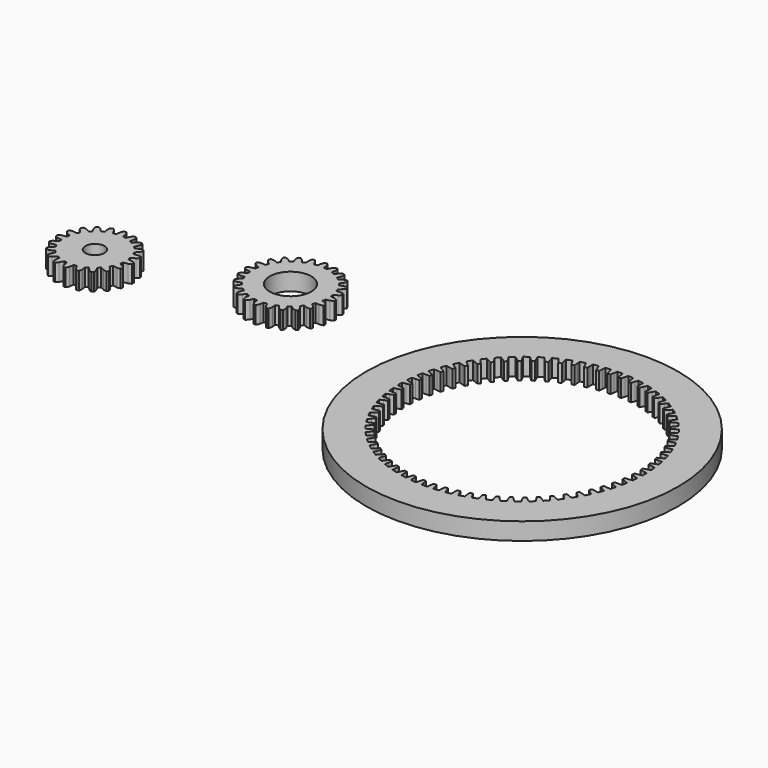
from build123d import *

# Parameters (mm, degrees)
F0_R     = 2.75
F0_R_2   = 6
F0_R_3   = 45
F1_DEPTH = 5


with BuildPart() as f1:
    # F0 (on Top) → F1 (new body)
    with BuildSketch(Plane.XY):
        with BuildLine():
            ThreePointArc((-44.166472, -62.599633), (-44.345968, -62.166356), (-44.62143, -61.786791))
            ThreePointArc((-44.62143, -61.786791), (-44.914109, -61.782896), (-45.206788, -61.786791))
            ThreePointArc((-45.206788, -61.786791), (-45.482249, -62.166356), (-45.661746, -62.599633))
            Line((-45.661746, -62.599633), (-45.892656, -63.909188))
            ThreePointArc((-45.892656, -63.909188), (-46.310678, -63.965309), (-46.725582, -64.041111))
            Line((-46.725582, -64.041111), (-47.349865, -62.867005))
            ThreePointArc((-47.349865, -62.867005), (-47.654467, -62.510401), (-48.033738, -62.234536))
            ThreePointArc((-48.033738, -62.234536), (-48.313296, -62.321275), (-48.590447, -62.415421))
            ThreePointArc((-48.590447, -62.415421), (-48.735134, -62.861531), (-48.771955, -63.32907))
            Line((-48.771955, -63.32907), (-48.586889, -64.645886))
            ThreePointArc((-48.586889, -64.645886), (-48.967109, -64.828436), (-49.338283, -65.02874))
            Line((-49.338283, -65.02874), (-50.294829, -64.105014))
            ThreePointArc((-50.294829, -64.105014), (-50.69472, -63.85999), (-51.140675, -63.714828))
            ThreePointArc((-51.140675, -63.714828), (-51.379747, -63.88371), (-51.61424, -64.058892))
            ThreePointArc((-51.61424, -64.058892), (-51.61399, -64.527879), (-51.504532, -64.983914))
            Line((-51.504532, -64.983914), (-50.921605, -66.179091))
            ThreePointArc((-50.921605, -66.179091), (-51.226805, -66.470201), (-51.517914, -66.7754))
            Line((-51.517914, -66.7754), (-52.713092, -66.192473))
            ThreePointArc((-52.713092, -66.192473), (-53.169126, -66.083015), (-53.638113, -66.082766))
            ThreePointArc((-53.638113, -66.082766), (-53.813296, -66.317259), (-53.982178, -66.55633))
            ThreePointArc((-53.982178, -66.55633), (-53.837015, -67.002286), (-53.591992, -67.402176))
            Line((-53.591992, -67.402176), (-52.668265, -68.358723))
            ThreePointArc((-52.668265, -68.358723), (-52.86857, -68.729896), (-53.051119, -69.110116))
            Line((-53.051119, -69.110116), (-54.367935, -68.92505))
            ThreePointArc((-54.367935, -68.92505), (-54.835474, -68.961871), (-55.281584, -69.106559))
            ThreePointArc((-55.281584, -69.106559), (-55.375731, -69.38371), (-55.46247, -69.663267))
            ThreePointArc((-55.46247, -69.663267), (-55.186604, -70.042539), (-54.83, -70.34714))
            Line((-54.83, -70.34714), (-53.655895, -70.971423))
            ThreePointArc((-53.655895, -70.971423), (-53.731696, -71.386328), (-53.787817, -71.804349))
            Line((-53.787817, -71.804349), (-55.097372, -72.035259))
            ThreePointArc((-55.097372, -72.035259), (-55.53065, -72.214756), (-55.910214, -72.490218))
            ThreePointArc((-55.910214, -72.490218), (-55.914109, -72.782896), (-55.910214, -73.075575))
            ThreePointArc((-55.910214, -73.075575), (-55.53065, -73.351037), (-55.097372, -73.530534))
            Line((-55.097372, -73.530534), (-53.787817, -73.761443))
            ThreePointArc((-53.787817, -73.761443), (-53.731696, -74.179465), (-53.655895, -74.59437))
            Line((-53.655895, -74.59437), (-54.83, -75.218653))
            ThreePointArc((-54.83, -75.218653), (-55.186604, -75.523254), (-55.46247, -75.902526))
            ThreePointArc((-55.46247, -75.902526), (-55.375731, -76.182083), (-55.281584, -76.459234))
            ThreePointArc((-55.281584, -76.459234), (-54.835474, -76.603922), (-54.367935, -76.640743))
            Line((-54.367935, -76.640743), (-53.051119, -76.455677))
            ThreePointArc((-53.051119, -76.455677), (-52.86857, -76.835897), (-52.668265, -77.20707))
            Line((-52.668265, -77.20707), (-53.591992, -78.163617))
            ThreePointArc((-53.591992, -78.163617), (-53.837015, -78.563507), (-53.982178, -79.009463))
            ThreePointArc((-53.982178, -79.009463), (-53.813296, -79.248534), (-53.638113, -79.483027))
            ThreePointArc((-53.638113, -79.483027), (-53.169126, -79.482778), (-52.713092, -79.373319))
            Line((-52.713092, -79.373319), (-51.517914, -78.790393))
            ThreePointArc((-51.517914, -78.790393), (-51.226805, -79.095592), (-50.921605, -79.386702))
            Line((-50.921605, -79.386702), (-51.504532, -80.581879))
            ThreePointArc((-51.504532, -80.581879), (-51.61399, -81.037914), (-51.61424, -81.5069))
            ThreePointArc((-51.61424, -81.5069), (-51.379747, -81.682083), (-51.140675, -81.850965))
            ThreePointArc((-51.140675, -81.850965), (-50.69472, -81.705803), (-50.294829, -81.460779))
            Line((-50.294829, -81.460779), (-49.338283, -80.537053))
            ThreePointArc((-49.338283, -80.537053), (-48.967109, -80.737357), (-48.586889, -80.919907))
            Line((-48.586889, -80.919907), (-48.771955, -82.236722))
            ThreePointArc((-48.771955, -82.236722), (-48.735134, -82.704262), (-48.590447, -83.150372))
            ThreePointArc((-48.590447, -83.150372), (-48.313296, -83.244518), (-48.033738, -83.331257))
            ThreePointArc((-48.033738, -83.331257), (-47.654467, -83.055392), (-47.349865, -82.698788))
            Line((-47.349865, -82.698788), (-46.725582, -81.524682))
            ThreePointArc((-46.725582, -81.524682), (-46.310678, -81.600484), (-45.892656, -81.656605))
            Line((-45.892656, -81.656605), (-45.661746, -82.966159))
            ThreePointArc((-45.661746, -82.966159), (-45.482249, -83.399437), (-45.206788, -83.779002))
            ThreePointArc((-45.206788, -83.779002), (-44.914109, -83.782896), (-44.62143, -83.779002))
            ThreePointArc((-44.62143, -83.779002), (-44.345968, -83.399437), (-44.166472, -82.966159))
            Line((-44.166472, -82.966159), (-43.935562, -81.656605))
            ThreePointArc((-43.935562, -81.656605), (-43.51754, -81.600484), (-43.102636, -81.524682))
            Line((-43.102636, -81.524682), (-42.478353, -82.698788))
            ThreePointArc((-42.478353, -82.698788), (-42.173751, -83.055392), (-41.79448, -83.331257))
            ThreePointArc((-41.79448, -83.331257), (-41.514922, -83.244518), (-41.237771, -83.150372))
            ThreePointArc((-41.237771, -83.150372), (-41.093084, -82.704262), (-41.056262, -82.236722))
            Line((-41.056262, -82.236722), (-41.241329, -80.919907))
            ThreePointArc((-41.241329, -80.919907), (-40.861109, -80.737357), (-40.489935, -80.537053))
            Line((-40.489935, -80.537053), (-39.533388, -81.460779))
            ThreePointArc((-39.533388, -81.460779), (-39.133498, -81.705803), (-38.687542, -81.850965))
            ThreePointArc((-38.687542, -81.850965), (-38.448471, -81.682083), (-38.213978, -81.5069))
            ThreePointArc((-38.213978, -81.5069), (-38.214227, -81.037914), (-38.323686, -80.581879))
            Line((-38.323686, -80.581879), (-38.906613, -79.386702))
            ThreePointArc((-38.906613, -79.386702), (-38.601413, -79.095592), (-38.310303, -78.790393))
            Line((-38.310303, -78.790393), (-37.115126, -79.373319))
            ThreePointArc((-37.115126, -79.373319), (-36.659092, -79.482778), (-36.190105, -79.483027))
            ThreePointArc((-36.190105, -79.483027), (-36.014922, -79.248534), (-35.84604, -79.009463))
            ThreePointArc((-35.84604, -79.009463), (-35.991202, -78.563507), (-36.236226, -78.163617))
            Line((-36.236226, -78.163617), (-37.159952, -77.20707))
            ThreePointArc((-37.159952, -77.20707), (-36.959648, -76.835897), (-36.777098, -76.455677))
            Line((-36.777098, -76.455677), (-35.460283, -76.640743))
            ThreePointArc((-35.460283, -76.640743), (-34.992744, -76.603922), (-34.546634, -76.459234))
            ThreePointArc((-34.546634, -76.459234), (-34.452487, -76.182083), (-34.365748, -75.902526))
            ThreePointArc((-34.365748, -75.902526), (-34.641614, -75.523254), (-34.998218, -75.218653))
            Line((-34.998218, -75.218653), (-36.172323, -74.59437))
            ThreePointArc((-36.172323, -74.59437), (-36.096521, -74.179465), (-36.0404, -73.761443))
            Line((-36.0404, -73.761443), (-34.730846, -73.530534))
            ThreePointArc((-34.730846, -73.530534), (-34.297568, -73.351037), (-33.918003, -73.075575))
            ThreePointArc((-33.918003, -73.075575), (-33.914109, -72.782896), (-33.918003, -72.490218))
            ThreePointArc((-33.918003, -72.490218), (-34.297568, -72.214756), (-34.730846, -72.035259))
            Line((-34.730846, -72.035259), (-36.0404, -71.804349))
            ThreePointArc((-36.0404, -71.804349), (-36.096521, -71.386328), (-36.172323, -70.971423))
            Line((-36.172323, -70.971423), (-34.998218, -70.34714))
            ThreePointArc((-34.998218, -70.34714), (-34.641614, -70.042539), (-34.365748, -69.663267))
            ThreePointArc((-34.365748, -69.663267), (-34.452487, -69.38371), (-34.546634, -69.106559))
            ThreePointArc((-34.546634, -69.106559), (-34.992744, -68.961871), (-35.460283, -68.92505))
            Line((-35.460283, -68.92505), (-36.777098, -69.110116))
            ThreePointArc((-36.777098, -69.110116), (-36.959648, -68.729896), (-37.159952, -68.358723))
            Line((-37.159952, -68.358723), (-36.236226, -67.402176))
            ThreePointArc((-36.236226, -67.402176), (-35.991202, -67.002286), (-35.84604, -66.55633))
            ThreePointArc((-35.84604, -66.55633), (-36.014922, -66.317259), (-36.190105, -66.082766))
            ThreePointArc((-36.190105, -66.082766), (-36.659092, -66.083015), (-37.115126, -66.192473))
            Line((-37.115126, -66.192473), (-38.310303, -66.7754))
            ThreePointArc((-38.310303, -66.7754), (-38.601413, -66.470201), (-38.906613, -66.179091))
            Line((-38.906613, -66.179091), (-38.323686, -64.983914))
            ThreePointArc((-38.323686, -64.983914), (-38.214227, -64.527879), (-38.213978, -64.058892))
            ThreePointArc((-38.213978, -64.058892), (-38.448471, -63.88371), (-38.687542, -63.714828))
            ThreePointArc((-38.687542, -63.714828), (-39.133498, -63.85999), (-39.533388, -64.105014))
            Line((-39.533388, -64.105014), (-40.489935, -65.02874))
            ThreePointArc((-40.489935, -65.02874), (-40.861109, -64.828436), (-41.241329, -64.645886))
            Line((-41.241329, -64.645886), (-41.056262, -63.32907))
            ThreePointArc((-41.056262, -63.32907), (-41.093084, -62.861531), (-41.237771, -62.415421))
            ThreePointArc((-41.237771, -62.415421), (-41.514922, -62.321275), (-41.79448, -62.234536))
            ThreePointArc((-41.79448, -62.234536), (-42.173751, -62.510401), (-42.478353, -62.867005))
            Line((-42.478353, -62.867005), (-43.102636, -64.041111))
            ThreePointArc((-43.102636, -64.041111), (-43.51754, -63.965309), (-43.935562, -63.909188))
            Line((-43.935562, -63.909188), (-44.128711, -62.813787))
            Line((-44.128711, -62.813787), (-44.166472, -62.599633))
        make_face()
        with Locations((-44.914109, -72.782896)):
            Circle(F0_R, mode=Mode.SUBTRACT)
        with BuildLine():
            ThreePointArc((0.77453, -46.419673), (0.566121, -45.922945), (0.29286, -45.458725))
            ThreePointArc((0.29286, -45.458725), (0, -45.455405), (-0.29286, -45.458725))
            ThreePointArc((-0.29286, -45.458725), (-0.566121, -45.922945), (-0.77453, -46.419673))
            Line((-0.77453, -46.419673), (-0.964686, -47.498098))
            ThreePointArc((-0.964686, -47.498098), (-1.425386, -47.54883), (-1.883519, -47.619065))
            Line((-1.883519, -47.619065), (-2.346313, -46.626602))
            ThreePointArc((-2.346313, -46.626602), (-2.676183, -46.20074), (-3.060282, -45.823063))
            ThreePointArc((-3.060282, -45.823063), (-3.344022, -45.895654), (-3.626045, -45.974659))
            ThreePointArc((-3.626045, -45.974659), (-3.769845, -46.493786), (-3.84259, -47.027528))
            Line((-3.84259, -47.027528), (-3.747149, -48.118423))
            ThreePointArc((-3.747149, -48.118423), (-4.179022, -48.286665), (-4.603366, -48.47308))
            Line((-4.603366, -48.47308), (-5.307258, -47.634214))
            ThreePointArc((-5.307258, -47.634214), (-5.736109, -47.30824), (-6.204871, -47.042843))
            ThreePointArc((-6.204871, -47.042843), (-6.460155, -47.186399), (-6.71212, -47.335704))
            ThreePointArc((-6.71212, -47.335704), (-6.716661, -47.874361), (-6.648784, -48.408744))
            Line((-6.648784, -48.408744), (-6.274251, -49.437766))
            ThreePointArc((-6.274251, -49.437766), (-6.647864, -49.712051), (-7.009501, -50.001943))
            Line((-7.009501, -50.001943), (-7.906523, -49.373841))
            ThreePointArc((-7.906523, -49.373841), (-8.40513, -49.169969), (-8.926608, -49.03494))
            ThreePointArc((-8.926608, -49.03494), (-9.136039, -49.239677), (-9.340775, -49.449107))
            ThreePointArc((-9.340775, -49.449107), (-9.205746, -49.970586), (-9.001874, -50.469192))
            Line((-9.001874, -50.469192), (-8.373773, -51.366215))
            ThreePointArc((-8.373773, -51.366215), (-8.663664, -51.727852), (-8.93795, -52.101464))
            Line((-8.93795, -52.101464), (-9.966972, -51.726931))
            ThreePointArc((-9.966972, -51.726931), (-10.501354, -51.659055), (-11.040012, -51.663596))
            ThreePointArc((-11.040012, -51.663596), (-11.189317, -51.91556), (-11.332872, -52.170845))
            ThreePointArc((-11.332872, -52.170845), (-11.067476, -52.639606), (-10.741502, -53.068457))
            Line((-10.741502, -53.068457), (-9.902636, -53.772349))
            ThreePointArc((-9.902636, -53.772349), (-10.089051, -54.196694), (-10.257292, -54.628566))
            Line((-10.257292, -54.628566), (-11.348187, -54.533125))
            ThreePointArc((-11.348187, -54.533125), (-11.881929, -54.60587), (-12.401057, -54.749671))
            ThreePointArc((-12.401057, -54.749671), (-12.480061, -55.031693), (-12.552653, -55.315434))
            ThreePointArc((-12.552653, -55.315434), (-12.174975, -55.699533), (-11.749114, -56.029403))
            Line((-11.749114, -56.029403), (-10.75665, -56.492196))
            ThreePointArc((-10.75665, -56.492196), (-10.826885, -56.950329), (-10.877617, -57.41103))
            Line((-10.877617, -57.41103), (-11.956043, -57.601185))
            ThreePointArc((-11.956043, -57.601185), (-12.45277, -57.809594), (-12.91699, -58.082855))
            ThreePointArc((-12.91699, -58.082855), (-12.92031, -58.375715), (-12.91699, -58.668576))
            ThreePointArc((-12.91699, -58.668576), (-12.45277, -58.941837), (-11.956043, -59.150246))
            Line((-11.956043, -59.150246), (-10.877617, -59.340401))
            ThreePointArc((-10.877617, -59.340401), (-10.826885, -59.801102), (-10.75665, -60.259235))
            Line((-10.75665, -60.259235), (-11.749114, -60.722028))
            ThreePointArc((-11.749114, -60.722028), (-12.174975, -61.051898), (-12.552653, -61.435997))
            ThreePointArc((-12.552653, -61.435997), (-12.480061, -61.719738), (-12.401057, -62.00176))
            ThreePointArc((-12.401057, -62.00176), (-11.881929, -62.145561), (-11.348187, -62.218306))
            Line((-11.348187, -62.218306), (-10.257292, -62.122865))
            ThreePointArc((-10.257292, -62.122865), (-10.089051, -62.554737), (-9.902636, -62.979081))
            Line((-9.902636, -62.979081), (-10.741502, -63.682974))
            ThreePointArc((-10.741502, -63.682974), (-11.067476, -64.111825), (-11.332872, -64.580586))
            ThreePointArc((-11.332872, -64.580586), (-11.189317, -64.83587), (-11.040012, -65.087835))
            ThreePointArc((-11.040012, -65.087835), (-10.501354, -65.092376), (-9.966972, -65.0245))
            Line((-9.966972, -65.0245), (-8.93795, -64.649966))
            ThreePointArc((-8.93795, -64.649966), (-8.663664, -65.023579), (-8.373773, -65.385216))
            Line((-8.373773, -65.385216), (-9.001874, -66.282239))
            ThreePointArc((-9.001874, -66.282239), (-9.205746, -66.780845), (-9.340775, -67.302323))
            ThreePointArc((-9.340775, -67.302323), (-9.136039, -67.511754), (-8.926608, -67.716491))
            ThreePointArc((-8.926608, -67.716491), (-8.40513, -67.581462), (-7.906523, -67.37759))
            Line((-7.906523, -67.37759), (-7.009501, -66.749488))
            ThreePointArc((-7.009501, -66.749488), (-6.647864, -67.03938), (-6.274251, -67.313665))
            Line((-6.274251, -67.313665), (-6.648784, -68.342687))
            ThreePointArc((-6.648784, -68.342687), (-6.716661, -68.87707), (-6.71212, -69.415727))
            ThreePointArc((-6.71212, -69.415727), (-6.460155, -69.565032), (-6.204871, -69.708588))
            ThreePointArc((-6.204871, -69.708588), (-5.736109, -69.443191), (-5.307258, -69.117217))
            Line((-5.307258, -69.117217), (-4.603366, -68.278351))
            ThreePointArc((-4.603366, -68.278351), (-4.179022, -68.464766), (-3.747149, -68.633008))
            Line((-3.747149, -68.633008), (-3.84259, -69.723903))
            ThreePointArc((-3.84259, -69.723903), (-3.769845, -70.257645), (-3.626045, -70.776772))
            ThreePointArc((-3.626045, -70.776772), (-3.344022, -70.855777), (-3.060282, -70.928368))
            ThreePointArc((-3.060282, -70.928368), (-2.676183, -70.550691), (-2.346313, -70.124829))
            Line((-2.346313, -70.124829), (-1.883519, -69.132366))
            ThreePointArc((-1.883519, -69.132366), (-1.425386, -69.202601), (-0.964686, -69.253332))
            Line((-0.964686, -69.253332), (-0.77453, -70.331758))
            ThreePointArc((-0.77453, -70.331758), (-0.566121, -70.828485), (-0.29286, -71.292706))
            ThreePointArc((-0.29286, -71.292706), (0, -71.296025), (0.29286, -71.292706))
            ThreePointArc((0.29286, -71.292706), (0.566121, -70.828485), (0.77453, -70.331758))
            Line((0.77453, -70.331758), (0.964686, -69.253332))
            ThreePointArc((0.964686, -69.253332), (1.425386, -69.202601), (1.883519, -69.132366))
            Line((1.883519, -69.132366), (2.346313, -70.124829))
            ThreePointArc((2.346313, -70.124829), (2.676183, -70.550691), (3.060282, -70.928368))
            ThreePointArc((3.060282, -70.928368), (3.344022, -70.855777), (3.626045, -70.776772))
            ThreePointArc((3.626045, -70.776772), (3.769845, -70.257645), (3.84259, -69.723903))
            Line((3.84259, -69.723903), (3.747149, -68.633008))
            ThreePointArc((3.747149, -68.633008), (4.179022, -68.464766), (4.603366, -68.278351))
            Line((4.603366, -68.278351), (5.307258, -69.117217))
            ThreePointArc((5.307258, -69.117217), (5.736109, -69.443191), (6.204871, -69.708588))
            ThreePointArc((6.204871, -69.708588), (6.460155, -69.565032), (6.71212, -69.415727))
            ThreePointArc((6.71212, -69.415727), (6.716661, -68.87707), (6.648784, -68.342687))
            Line((6.648784, -68.342687), (6.274251, -67.313665))
            ThreePointArc((6.274251, -67.313665), (6.647864, -67.03938), (7.009501, -66.749488))
            Line((7.009501, -66.749488), (7.906523, -67.37759))
            ThreePointArc((7.906523, -67.37759), (8.40513, -67.581462), (8.926608, -67.716491))
            ThreePointArc((8.926608, -67.716491), (9.136039, -67.511754), (9.340775, -67.302323))
            ThreePointArc((9.340775, -67.302323), (9.205746, -66.780845), (9.001874, -66.282239))
            Line((9.001874, -66.282239), (8.373773, -65.385216))
            ThreePointArc((8.373773, -65.385216), (8.663664, -65.023579), (8.93795, -64.649966))
            Line((8.93795, -64.649966), (9.966972, -65.0245))
            ThreePointArc((9.966972, -65.0245), (10.501354, -65.092376), (11.040012, -65.087835))
            ThreePointArc((11.040012, -65.087835), (11.189317, -64.83587), (11.332872, -64.580586))
            ThreePointArc((11.332872, -64.580586), (11.067476, -64.111825), (10.741502, -63.682974))
            Line((10.741502, -63.682974), (9.902636, -62.979081))
            ThreePointArc((9.902636, -62.979081), (10.089051, -62.554737), (10.257292, -62.122865))
            Line((10.257292, -62.122865), (11.348187, -62.218306))
            ThreePointArc((11.348187, -62.218306), (11.881929, -62.145561), (12.401057, -62.00176))
            ThreePointArc((12.401057, -62.00176), (12.480061, -61.719738), (12.552653, -61.435997))
            ThreePointArc((12.552653, -61.435997), (12.174975, -61.051898), (11.749114, -60.722028))
            Line((11.749114, -60.722028), (10.75665, -60.259235))
            ThreePointArc((10.75665, -60.259235), (10.826885, -59.801102), (10.877617, -59.340401))
            Line((10.877617, -59.340401), (11.956043, -59.150246))
            ThreePointArc((11.956043, -59.150246), (12.45277, -58.941837), (12.91699, -58.668576))
            ThreePointArc((12.91699, -58.668576), (12.92031, -58.375715), (12.91699, -58.082855))
            ThreePointArc((12.91699, -58.082855), (12.45277, -57.809594), (11.956043, -57.601185))
            Line((11.956043, -57.601185), (10.877617, -57.41103))
            ThreePointArc((10.877617, -57.41103), (10.826885, -56.950329), (10.75665, -56.492196))
            Line((10.75665, -56.492196), (11.749114, -56.029403))
            ThreePointArc((11.749114, -56.029403), (12.174975, -55.699533), (12.552653, -55.315434))
            ThreePointArc((12.552653, -55.315434), (12.480061, -55.031693), (12.401057, -54.749671))
            ThreePointArc((12.401057, -54.749671), (11.881929, -54.60587), (11.348187, -54.533125))
            Line((11.348187, -54.533125), (10.257292, -54.628566))
            ThreePointArc((10.257292, -54.628566), (10.089051, -54.196694), (9.902636, -53.772349))
            Line((9.902636, -53.772349), (10.741502, -53.068457))
            ThreePointArc((10.741502, -53.068457), (11.067476, -52.639606), (11.332872, -52.170845))
            ThreePointArc((11.332872, -52.170845), (11.189317, -51.91556), (11.040012, -51.663596))
            ThreePointArc((11.040012, -51.663596), (10.501354, -51.659055), (9.966972, -51.726931))
            Line((9.966972, -51.726931), (8.93795, -52.101464))
            ThreePointArc((8.93795, -52.101464), (8.663664, -51.727852), (8.373773, -51.366215))
            Line((8.373773, -51.366215), (9.001874, -50.469192))
            ThreePointArc((9.001874, -50.469192), (9.205746, -49.970586), (9.340775, -49.449107))
            ThreePointArc((9.340775, -49.449107), (9.136039, -49.239677), (8.926608, -49.03494))
            ThreePointArc((8.926608, -49.03494), (8.40513, -49.169969), (7.906523, -49.373841))
            Line((7.906523, -49.373841), (7.009501, -50.001943))
            ThreePointArc((7.009501, -50.001943), (6.647864, -49.712051), (6.274251, -49.437766))
            Line((6.274251, -49.437766), (6.648784, -48.408744))
            ThreePointArc((6.648784, -48.408744), (6.716661, -47.874361), (6.71212, -47.335704))
            ThreePointArc((6.71212, -47.335704), (6.460155, -47.186399), (6.204871, -47.042843))
            ThreePointArc((6.204871, -47.042843), (5.736109, -47.30824), (5.307258, -47.634214))
            Line((5.307258, -47.634214), (4.603366, -48.47308))
            ThreePointArc((4.603366, -48.47308), (4.179022, -48.286665), (3.747149, -48.118423))
            Line((3.747149, -48.118423), (3.84259, -47.027528))
            ThreePointArc((3.84259, -47.027528), (3.769845, -46.493786), (3.626045, -45.974659))
            ThreePointArc((3.626045, -45.974659), (3.344022, -45.895654), (3.060282, -45.823063))
            ThreePointArc((3.060282, -45.823063), (2.676183, -46.20074), (2.346313, -46.626602))
            Line((2.346313, -46.626602), (1.883519, -47.619065))
            ThreePointArc((1.883519, -47.619065), (1.425386, -47.54883), (0.964686, -47.498098))
            Line((0.964686, -47.498098), (0.77453, -46.419673))
        make_face()
        with Locations((0, -58.375715)):
            Circle(F0_R_2, mode=Mode.SUBTRACT)
        with Locations((84.973321, -81.059906)):
            Circle(F0_R_3)
        with BuildLine():
            Line((85.745823, -45.76836), (85.915799, -46.732341))
            Line((85.915799, -46.732341), (86.10035, -47.778983))
            ThreePointArc((86.10035, -47.778983), (86.511231, -47.795438), (86.921876, -47.816965))
            Line((86.921876, -47.816965), (87.202212, -46.791816))
            Line((87.202212, -46.791816), (87.460408, -45.84763))
            ThreePointArc((87.460408, -45.84763), (88.230394, -45.910489), (88.998821, -45.990185))
            Line((88.998821, -45.990185), (89.079127, -46.965738))
            Line((89.079127, -46.965738), (89.166319, -48.024943))
            ThreePointArc((89.166319, -48.024943), (89.573928, -48.079239), (89.980836, -48.138563))
            Line((89.980836, -48.138563), (90.354564, -47.143654))
            Line((90.354564, -47.143654), (90.698778, -46.227318))
            ThreePointArc((90.698778, -46.227318), (91.459679, -46.360955), (92.217474, -46.511212))
            Line((92.217474, -46.511212), (92.207425, -47.490013))
            Line((92.207425, -47.490013), (92.196514, -48.552745))
            ThreePointArc((92.196514, -48.552745), (92.597375, -48.644419), (92.997073, -48.741035))
            Line((92.997073, -48.741035), (93.461006, -47.784853))
            Line((93.461006, -47.784853), (93.888299, -46.904186))
            ThreePointArc((93.888299, -46.904186), (94.633625, -47.107461), (95.374323, -47.326997))
            Line((95.374323, -47.326997), (95.274005, -48.300695))
            Line((95.274005, -48.300695), (95.165084, -49.357887))
            ThreePointArc((95.165084, -49.357887), (95.555776, -49.486156), (95.944854, -49.61924))
            Line((95.944854, -49.61924), (96.495034, -48.709943))
            Line((96.495034, -48.709943), (97.001762, -47.872459))
            ThreePointArc((97.001762, -47.872459), (97.725152, -48.143636), (98.442435, -48.430579))
            Line((98.442435, -48.430579), (98.252702, -49.390868))
            Line((98.252702, -49.390868), (98.046701, -50.4335))
            ThreePointArc((98.046701, -50.4335), (98.423891, -50.59727), (98.79903, -50.765686))
            Line((98.79903, -50.765686), (99.430762, -49.911032))
            Line((99.430762, -49.911032), (100.012602, -49.123875))
            ThreePointArc((100.012602, -49.123875), (100.707885, -49.460642), (101.395632, -49.812543))
            Line((101.395632, -49.812543), (101.118105, -50.751229))
            Line((101.118105, -50.751229), (100.81678, -51.770406))
            ThreePointArc((100.81678, -51.770406), (101.177251, -51.96828), (101.53525, -52.170591))
            Line((101.53525, -52.170591), (102.243145, -51.377872))
            Line((102.243145, -51.377872), (102.895132, -50.647759))
            ThreePointArc((102.895132, -50.647759), (103.556377, -51.047241), (104.208721, -51.461098))
            Line((104.208721, -51.461098), (103.845766, -52.370173))
            Line((103.845766, -52.370173), (103.451689, -53.3572))
            ThreePointArc((103.451689, -53.3572), (103.792364, -53.58749), (104.130169, -53.82197))
            Line((104.130169, -53.82197), (104.908187, -53.097948))
            Line((104.908187, -53.097948), (105.62476, -52.431108))
            ThreePointArc((105.62476, -52.431108), (106.246324, -52.889898), (106.857699, -53.36218))
            Line((106.857699, -53.36218), (106.412414, -54.233888))
            Line((106.412414, -54.233888), (105.928947, -55.180343))
            ThreePointArc((105.928947, -55.180343), (106.24692, -55.441085), (106.561649, -55.705733))
            Line((106.561649, -55.705733), (107.403152, -55.056586))
            Line((107.403152, -55.056586), (108.178197, -54.458707))
            ThreePointArc((108.178197, -54.458707), (108.754778, -54.972891), (109.319968, -55.49957))
            Line((109.319968, -55.49957), (108.796151, -56.326473))
            Line((108.796151, -56.326473), (108.227418, -57.224282))
            ThreePointArc((108.227418, -57.224282), (108.519977, -57.51325), (108.808945, -57.805809))
            Line((108.808945, -57.805809), (109.706754, -57.237076))
            Line((109.706754, -57.237076), (110.533658, -56.713259))
            ThreePointArc((110.533658, -56.713259), (111.060336, -57.27845), (111.57452, -57.855031))
            Line((111.57452, -57.855031), (110.976641, -58.630075))
            Line((110.976641, -58.630075), (110.327494, -59.471578))
            ThreePointArc((110.327494, -59.471578), (110.592143, -59.786307), (110.852884, -60.104281))
            Line((110.852884, -60.104281), (111.799339, -59.620813))
            Line((111.799339, -59.620813), (112.671047, -59.175528))
            ThreePointArc((112.671047, -59.175528), (113.143329, -59.786903), (113.60212, -60.408467))
            Line((113.60212, -60.408467), (112.935279, -61.12504))
            Line((112.935279, -61.12504), (112.211258, -61.903058))
            ThreePointArc((112.211258, -61.903058), (112.445737, -62.240863), (112.676028, -62.581538))
            Line((112.676028, -62.581538), (113.663054, -62.187461))
            Line((113.663054, -62.187461), (114.572129, -61.824507))
            ThreePointArc((114.572129, -61.824507), (114.985986, -62.476851), (115.385469, -63.138095))
            Line((115.385469, -63.138095), (114.655355, -63.790083))
            Line((114.655355, -63.790083), (113.862636, -64.497977))
            ThreePointArc((113.862636, -64.497977), (114.064947, -64.855977), (114.262821, -65.216447))
            Line((114.262821, -65.216447), (115.281998, -64.915122))
            Line((115.281998, -64.915122), (116.220684, -64.637595))
            ThreePointArc((116.220684, -64.637595), (116.572586, -65.325342), (116.909352, -66.020625))
            Line((116.909352, -66.020625), (116.122195, -66.602465))
            Line((116.122195, -66.602465), (115.267542, -67.234197))
            ThreePointArc((115.267542, -67.234197), (115.435957, -67.609336), (115.599728, -67.986527))
            Line((115.599728, -67.986527), (116.64236, -67.780525))
            Line((116.64236, -67.780525), (117.602648, -67.590792))
            ThreePointArc((117.602648, -67.590792), (117.889591, -68.308075), (118.160768, -69.031465))
            Line((118.160768, -69.031465), (117.323284, -69.538194))
            Line((117.323284, -69.538194), (116.413987, -70.088373))
            ThreePointArc((116.413987, -70.088373), (116.547071, -70.477452), (116.67534, -70.868144))
            Line((116.67534, -70.868144), (117.732532, -70.759223))
            Line((117.732532, -70.759223), (118.70623, -70.658904))
            ThreePointArc((118.70623, -70.658904), (118.925767, -71.399602), (119.129041, -72.144928))
            Line((119.129041, -72.144928), (118.248374, -72.572221))
            Line((118.248374, -72.572221), (117.292192, -73.036154))
            ThreePointArc((117.292192, -73.036154), (117.388809, -73.435853), (117.480482, -73.836713))
            Line((117.480482, -73.836713), (118.543214, -73.825802))
            Line((118.543214, -73.825802), (119.522015, -73.815753))
            ThreePointArc((119.522015, -73.815753), (119.672272, -74.573548), (119.805909, -75.33445))
            Line((119.805909, -75.33445), (118.889574, -75.678663))
            Line((118.889574, -75.678663), (117.894664, -76.052392))
            ThreePointArc((117.894664, -76.052392), (117.953989, -76.459299), (118.008284, -76.866908))
            Line((118.008284, -76.866908), (119.06749, -76.9541))
            Line((119.06749, -76.9541), (120.043043, -77.034406))
            ThreePointArc((120.043043, -77.034406), (120.122738, -77.802833), (120.185598, -78.572819))
            Line((120.185598, -78.572819), (119.241411, -78.831015))
            Line((119.241411, -78.831015), (118.216262, -79.111351))
            ThreePointArc((118.216262, -79.111351), (118.237789, -79.521997), (118.254244, -79.932877))
            Line((118.254244, -79.932877), (119.300886, -80.117428))
            Line((119.300886, -80.117428), (120.264868, -80.287404))
            ThreePointArc((120.264868, -80.287404), (120.273321, -81.059906), (120.264868, -81.832408))
            Line((120.264868, -81.832408), (119.300886, -82.002384))
            Line((119.300886, -82.002384), (118.254244, -82.186935))
            ThreePointArc((118.254244, -82.186935), (118.237789, -82.597815), (118.216262, -83.008461))
            Line((118.216262, -83.008461), (119.241411, -83.288797))
            Line((119.241411, -83.288797), (120.185598, -83.546993))
            ThreePointArc((120.185598, -83.546993), (120.122738, -84.316979), (120.043043, -85.085405))
            Line((120.043043, -85.085405), (119.06749, -85.165711))
            Line((119.06749, -85.165711), (118.008284, -85.252903))
            ThreePointArc((118.008284, -85.252903), (117.953989, -85.660512), (117.894664, -86.06742))
            Line((117.894664, -86.06742), (118.889574, -86.441149))
            Line((118.889574, -86.441149), (119.805909, -86.785362))
            ThreePointArc((119.805909, -86.785362), (119.672272, -87.546264), (119.522015, -88.304059))
            Line((119.522015, -88.304059), (118.543214, -88.29401))
            Line((118.543214, -88.29401), (117.480482, -88.283099))
            ThreePointArc((117.480482, -88.283099), (117.388809, -88.683959), (117.292192, -89.083657))
            Line((117.292192, -89.083657), (118.248374, -89.54759))
            Line((118.248374, -89.54759), (119.129041, -89.974884))
            ThreePointArc((119.129041, -89.974884), (118.925767, -90.720209), (118.70623, -91.460908))
            Line((118.70623, -91.460908), (117.732532, -91.360589))
            Line((117.732532, -91.360589), (116.67534, -91.251668))
            ThreePointArc((116.67534, -91.251668), (116.547071, -91.64236), (116.413987, -92.031439))
            Line((116.413987, -92.031439), (117.323284, -92.581618))
            Line((117.323284, -92.581618), (118.160768, -93.088346))
            ThreePointArc((118.160768, -93.088346), (117.889591, -93.811737), (117.602648, -94.529019))
            Line((117.602648, -94.529019), (116.64236, -94.339287))
            Line((116.64236, -94.339287), (115.599728, -94.133285))
            ThreePointArc((115.599728, -94.133285), (115.435957, -94.510475), (115.267542, -94.885615))
            Line((115.267542, -94.885615), (116.122195, -95.517346))
            Line((116.122195, -95.517346), (116.909352, -96.099186))
            ThreePointArc((116.909352, -96.099186), (116.572586, -96.79447), (116.220684, -97.482217))
            Line((116.220684, -97.482217), (115.281998, -97.204689))
            Line((115.281998, -97.204689), (114.262821, -96.903365))
            ThreePointArc((114.262821, -96.903365), (114.064947, -97.263835), (113.862636, -97.621835))
            Line((113.862636, -97.621835), (114.655355, -98.329729))
            Line((114.655355, -98.329729), (115.385469, -98.981717))
            ThreePointArc((115.385469, -98.981717), (114.985986, -99.642961), (114.572129, -100.295305))
            Line((114.572129, -100.295305), (113.663054, -99.932351))
            Line((113.663054, -99.932351), (112.676028, -99.538273))
            ThreePointArc((112.676028, -99.538273), (112.445737, -99.878948), (112.211258, -100.216754))
            Line((112.211258, -100.216754), (112.935279, -100.994772))
            Line((112.935279, -100.994772), (113.60212, -101.711344))
            ThreePointArc((113.60212, -101.711344), (113.143329, -102.332909), (112.671047, -102.944284))
            Line((112.671047, -102.944284), (111.799339, -102.498999))
            Line((111.799339, -102.498999), (110.852884, -102.015531))
            ThreePointArc((110.852884, -102.015531), (110.592143, -102.333504), (110.327494, -102.648234))
            Line((110.327494, -102.648234), (110.976641, -103.489737))
            Line((110.976641, -103.489737), (111.57452, -104.264781))
            ThreePointArc((111.57452, -104.264781), (111.060336, -104.841362), (110.533658, -105.406553))
            Line((110.533658, -105.406553), (109.706754, -104.882736))
            Line((109.706754, -104.882736), (108.808945, -104.314003))
            ThreePointArc((108.808945, -104.314003), (108.519977, -104.606562), (108.227418, -104.89553))
            Line((108.227418, -104.89553), (108.796151, -105.793339))
            Line((108.796151, -105.793339), (109.319968, -106.620242))
            ThreePointArc((109.319968, -106.620242), (108.754778, -107.146921), (108.178197, -107.661104))
            Line((108.178197, -107.661104), (107.403152, -107.063225))
            Line((107.403152, -107.063225), (106.561649, -106.414079))
            ThreePointArc((106.561649, -106.414079), (106.24692, -106.678727), (105.928947, -106.939469))
            Line((105.928947, -106.939469), (106.412414, -107.885924))
            Line((106.412414, -107.885924), (106.857699, -108.757631))
            ThreePointArc((106.857699, -108.757631), (106.246324, -109.229914), (105.62476, -109.688704))
            Line((105.62476, -109.688704), (104.908187, -109.021863))
            Line((104.908187, -109.021863), (104.130169, -108.297842))
            ThreePointArc((104.130169, -108.297842), (103.792364, -108.532322), (103.451689, -108.762612))
            Line((103.451689, -108.762612), (103.845766, -109.749639))
            Line((103.845766, -109.749639), (104.208721, -110.658713))
            ThreePointArc((104.208721, -110.658713), (103.556377, -111.072571), (102.895132, -111.472053))
            Line((102.895132, -111.472053), (102.243145, -110.74194))
            Line((102.243145, -110.74194), (101.53525, -109.949221))
            ThreePointArc((101.53525, -109.949221), (101.177251, -110.151531), (100.81678, -110.349406))
            Line((100.81678, -110.349406), (101.118105, -111.368583))
            Line((101.118105, -111.368583), (101.395632, -112.307269))
            ThreePointArc((101.395632, -112.307269), (100.707885, -112.65917), (100.012602, -112.995936))
            Line((100.012602, -112.995936), (99.430762, -112.20878))
            Line((99.430762, -112.20878), (98.79903, -111.354126))
            ThreePointArc((98.79903, -111.354126), (98.423891, -111.522542), (98.046701, -111.686312))
            Line((98.046701, -111.686312), (98.252702, -112.728944))
            Line((98.252702, -112.728944), (98.442435, -113.689233))
            ThreePointArc((98.442435, -113.689233), (97.725152, -113.976176), (97.001762, -114.247353))
            Line((97.001762, -114.247353), (96.495034, -113.409869))
            Line((96.495034, -113.409869), (95.944854, -112.500572))
            ThreePointArc((95.944854, -112.500572), (95.555776, -112.633655), (95.165084, -112.761924))
            Line((95.165084, -112.761924), (95.274005, -113.819116))
            Line((95.274005, -113.819116), (95.374323, -114.792815))
            ThreePointArc((95.374323, -114.792815), (94.633625, -115.012351), (93.888299, -115.215625))
            Line((93.888299, -115.215625), (93.461006, -114.334959))
            Line((93.461006, -114.334959), (92.997073, -113.378777))
            ThreePointArc((92.997073, -113.378777), (92.597375, -113.475393), (92.196514, -113.567066))
            Line((92.196514, -113.567066), (92.207425, -114.629798))
            Line((92.207425, -114.629798), (92.217474, -115.6086))
            ThreePointArc((92.217474, -115.6086), (91.459679, -115.758856), (90.698778, -115.892493))
            Line((90.698778, -115.892493), (90.354564, -114.976158))
            Line((90.354564, -114.976158), (89.980836, -113.981248))
            ThreePointArc((89.980836, -113.981248), (89.573928, -114.040573), (89.166319, -114.094869))
            Line((89.166319, -114.094869), (89.079127, -115.154074))
            Line((89.079127, -115.154074), (88.998821, -116.129627))
            ThreePointArc((88.998821, -116.129627), (88.230394, -116.209322), (87.460408, -116.272182))
            Line((87.460408, -116.272182), (87.202212, -115.327996))
            Line((87.202212, -115.327996), (86.921876, -114.302847))
            ThreePointArc((86.921876, -114.302847), (86.511231, -114.324374), (86.10035, -114.340828))
            Line((86.10035, -114.340828), (85.915799, -115.38747))
            Line((85.915799, -115.38747), (85.745823, -116.351452))
            ThreePointArc((85.745823, -116.351452), (84.973321, -116.359906), (84.20082, -116.351452))
            Line((84.20082, -116.351452), (84.030844, -115.38747))
            Line((84.030844, -115.38747), (83.846292, -114.340828))
            ThreePointArc((83.846292, -114.340828), (83.435412, -114.324374), (83.024767, -114.302847))
            Line((83.024767, -114.302847), (82.744431, -115.327996))
            Line((82.744431, -115.327996), (82.486235, -116.272182))
            ThreePointArc((82.486235, -116.272182), (81.716248, -116.209322), (80.947822, -116.129627))
            Line((80.947822, -116.129627), (80.867516, -115.154074))
            Line((80.867516, -115.154074), (80.780324, -114.094869))
            ThreePointArc((80.780324, -114.094869), (80.372715, -114.040573), (79.965807, -113.981248))
            Line((79.965807, -113.981248), (79.592078, -114.976158))
            Line((79.592078, -114.976158), (79.247865, -115.892493))
            ThreePointArc((79.247865, -115.892493), (78.486963, -115.758856), (77.729168, -115.6086))
            Line((77.729168, -115.6086), (77.739218, -114.629798))
            Line((77.739218, -114.629798), (77.750129, -113.567066))
            ThreePointArc((77.750129, -113.567066), (77.349268, -113.475393), (76.94957, -113.378777))
            Line((76.94957, -113.378777), (76.485637, -114.334959))
            Line((76.485637, -114.334959), (76.058343, -115.215625))
            ThreePointArc((76.058343, -115.215625), (75.313018, -115.012351), (74.572319, -114.792815))
            Line((74.572319, -114.792815), (74.672638, -113.819116))
            Line((74.672638, -113.819116), (74.781559, -112.761924))
            ThreePointArc((74.781559, -112.761924), (74.390867, -112.633655), (74.001789, -112.500572))
            Line((74.001789, -112.500572), (73.451609, -113.409869))
            Line((73.451609, -113.409869), (72.944881, -114.247353))
            ThreePointArc((72.944881, -114.247353), (72.221491, -113.976176), (71.504208, -113.689233))
            Line((71.504208, -113.689233), (71.69394, -112.728944))
            Line((71.69394, -112.728944), (71.899942, -111.686312))
            ThreePointArc((71.899942, -111.686312), (71.522752, -111.522542), (71.147613, -111.354126))
            Line((71.147613, -111.354126), (70.515881, -112.20878))
            Line((70.515881, -112.20878), (69.934041, -112.995936))
            ThreePointArc((69.934041, -112.995936), (69.238757, -112.65917), (68.55101, -112.307269))
            Line((68.55101, -112.307269), (68.828538, -111.368583))
            Line((68.828538, -111.368583), (69.129863, -110.349406))
            ThreePointArc((69.129863, -110.349406), (68.769392, -110.151531), (68.411393, -109.949221))
            Line((68.411393, -109.949221), (67.703498, -110.74194))
            Line((67.703498, -110.74194), (67.051511, -111.472053))
            ThreePointArc((67.051511, -111.472053), (66.390266, -111.072571), (65.737922, -110.658713))
            Line((65.737922, -110.658713), (66.100877, -109.749639))
            Line((66.100877, -109.749639), (66.494954, -108.762612))
            ThreePointArc((66.494954, -108.762612), (66.154279, -108.532322), (65.816473, -108.297842))
            Line((65.816473, -108.297842), (65.038456, -109.021863))
            Line((65.038456, -109.021863), (64.321883, -109.688704))
            ThreePointArc((64.321883, -109.688704), (63.700319, -109.229914), (63.088943, -108.757631))
            Line((63.088943, -108.757631), (63.534229, -107.885924))
            Line((63.534229, -107.885924), (64.017696, -106.939469))
            ThreePointArc((64.017696, -106.939469), (63.699723, -106.678727), (63.384993, -106.414079))
            Line((63.384993, -106.414079), (62.54349, -107.063225))
            Line((62.54349, -107.063225), (61.768446, -107.661104))
            ThreePointArc((61.768446, -107.661104), (61.191865, -107.146921), (60.626675, -106.620242))
            Line((60.626675, -106.620242), (61.150491, -105.793339))
            Line((61.150491, -105.793339), (61.719224, -104.89553))
            ThreePointArc((61.719224, -104.89553), (61.426666, -104.606562), (61.137697, -104.314003))
            Line((61.137697, -104.314003), (60.239888, -104.882736))
            Line((60.239888, -104.882736), (59.412985, -105.406553))
            ThreePointArc((59.412985, -105.406553), (58.886307, -104.841362), (58.372123, -104.264781))
            Line((58.372123, -104.264781), (58.970002, -103.489737))
            Line((58.970002, -103.489737), (59.619148, -102.648234))
            ThreePointArc((59.619148, -102.648234), (59.3545, -102.333504), (59.093759, -102.015531))
            Line((59.093759, -102.015531), (58.147303, -102.498999))
            Line((58.147303, -102.498999), (57.275596, -102.944284))
            ThreePointArc((57.275596, -102.944284), (56.803313, -102.332909), (56.344523, -101.711344))
            Line((56.344523, -101.711344), (57.011364, -100.994772))
            Line((57.011364, -100.994772), (57.735385, -100.216754))
            ThreePointArc((57.735385, -100.216754), (57.500905, -99.878948), (57.270615, -99.538273))
            Line((57.270615, -99.538273), (56.283589, -99.932351))
            Line((56.283589, -99.932351), (55.374514, -100.295305))
            ThreePointArc((55.374514, -100.295305), (54.960656, -99.642961), (54.561174, -98.981717))
            Line((54.561174, -98.981717), (55.291287, -98.329729))
            Line((55.291287, -98.329729), (56.084006, -97.621835))
            ThreePointArc((56.084006, -97.621835), (55.881696, -97.263835), (55.683821, -96.903365))
            Line((55.683821, -96.903365), (54.664644, -97.204689))
            Line((54.664644, -97.204689), (53.725958, -97.482217))
            ThreePointArc((53.725958, -97.482217), (53.374057, -96.79447), (53.037291, -96.099186))
            Line((53.037291, -96.099186), (53.824447, -95.517346))
            Line((53.824447, -95.517346), (54.679101, -94.885615))
            ThreePointArc((54.679101, -94.885615), (54.510686, -94.510475), (54.346915, -94.133285))
            Line((54.346915, -94.133285), (53.304283, -94.339287))
            Line((53.304283, -94.339287), (52.343994, -94.529019))
            ThreePointArc((52.343994, -94.529019), (52.057052, -93.811737), (51.785875, -93.088346))
            Line((51.785875, -93.088346), (52.623359, -92.581618))
            Line((52.623359, -92.581618), (53.532655, -92.031439))
            ThreePointArc((53.532655, -92.031439), (53.399572, -91.64236), (53.271303, -91.251668))
            Line((53.271303, -91.251668), (52.214111, -91.360589))
            Line((52.214111, -91.360589), (51.240412, -91.460908))
            ThreePointArc((51.240412, -91.460908), (51.020876, -90.720209), (50.817602, -89.974884))
            Line((50.817602, -89.974884), (51.698268, -89.54759))
            Line((51.698268, -89.54759), (52.654451, -89.083657))
            ThreePointArc((52.654451, -89.083657), (52.557834, -88.683959), (52.466161, -88.283099))
            Line((52.466161, -88.283099), (51.403429, -88.29401))
            Line((51.403429, -88.29401), (50.424628, -88.304059))
            ThreePointArc((50.424628, -88.304059), (50.274371, -87.546264), (50.140734, -86.785362))
            Line((50.140734, -86.785362), (51.057069, -86.441149))
            Line((51.057069, -86.441149), (52.051979, -86.06742))
            ThreePointArc((52.051979, -86.06742), (51.992654, -85.660512), (51.938358, -85.252903))
            Line((51.938358, -85.252903), (50.879153, -85.165711))
            Line((50.879153, -85.165711), (49.9036, -85.085405))
            ThreePointArc((49.9036, -85.085405), (49.823905, -84.316979), (49.761045, -83.546993))
            Line((49.761045, -83.546993), (50.705231, -83.288797))
            Line((50.705231, -83.288797), (51.73038, -83.008461))
            ThreePointArc((51.73038, -83.008461), (51.708853, -82.597815), (51.692399, -82.186935))
            Line((51.692399, -82.186935), (50.645757, -82.002384))
            Line((50.645757, -82.002384), (49.681775, -81.832408))
            ThreePointArc((49.681775, -81.832408), (49.673321, -81.059906), (49.681775, -80.287404))
            Line((49.681775, -80.287404), (50.645757, -80.117428))
            Line((50.645757, -80.117428), (51.692399, -79.932877))
            ThreePointArc((51.692399, -79.932877), (51.708853, -79.521997), (51.73038, -79.111351))
            Line((51.73038, -79.111351), (50.705231, -78.831015))
            Line((50.705231, -78.831015), (49.761045, -78.572819))
            ThreePointArc((49.761045, -78.572819), (49.823905, -77.802833), (49.9036, -77.034406))
            Line((49.9036, -77.034406), (50.879153, -76.9541))
            Line((50.879153, -76.9541), (51.938358, -76.866908))
            ThreePointArc((51.938358, -76.866908), (51.992654, -76.459299), (52.051979, -76.052392))
            Line((52.051979, -76.052392), (51.057069, -75.678663))
            Line((51.057069, -75.678663), (50.140734, -75.33445))
            ThreePointArc((50.140734, -75.33445), (50.274371, -74.573548), (50.424628, -73.815753))
            Line((50.424628, -73.815753), (51.403429, -73.825802))
            Line((51.403429, -73.825802), (52.466161, -73.836713))
            ThreePointArc((52.466161, -73.836713), (52.557834, -73.435853), (52.654451, -73.036154))
            Line((52.654451, -73.036154), (51.698268, -72.572221))
            Line((51.698268, -72.572221), (50.817602, -72.144928))
            ThreePointArc((50.817602, -72.144928), (51.020876, -71.399602), (51.240412, -70.658904))
            Line((51.240412, -70.658904), (52.214111, -70.759223))
            Line((52.214111, -70.759223), (53.271303, -70.868144))
            ThreePointArc((53.271303, -70.868144), (53.399572, -70.477452), (53.532655, -70.088373))
            Line((53.532655, -70.088373), (52.623359, -69.538194))
            Line((52.623359, -69.538194), (51.785875, -69.031465))
            ThreePointArc((51.785875, -69.031465), (52.057052, -68.308075), (52.343994, -67.590792))
            Line((52.343994, -67.590792), (53.304283, -67.780525))
            Line((53.304283, -67.780525), (54.346915, -67.986527))
            ThreePointArc((54.346915, -67.986527), (54.510686, -67.609336), (54.679101, -67.234197))
            Line((54.679101, -67.234197), (53.824447, -66.602465))
            Line((53.824447, -66.602465), (53.037291, -66.020625))
            ThreePointArc((53.037291, -66.020625), (53.374057, -65.325342), (53.725958, -64.637595))
            Line((53.725958, -64.637595), (54.664644, -64.915122))
            Line((54.664644, -64.915122), (55.683821, -65.216447))
            ThreePointArc((55.683821, -65.216447), (55.881696, -64.855977), (56.084006, -64.497977))
            Line((56.084006, -64.497977), (55.291287, -63.790083))
            Line((55.291287, -63.790083), (54.561174, -63.138095))
            ThreePointArc((54.561174, -63.138095), (54.960656, -62.476851), (55.374514, -61.824507))
            Line((55.374514, -61.824507), (56.283589, -62.187461))
            Line((56.283589, -62.187461), (57.270615, -62.581538))
            ThreePointArc((57.270615, -62.581538), (57.500905, -62.240863), (57.735385, -61.903058))
            Line((57.735385, -61.903058), (57.011364, -61.12504))
            Line((57.011364, -61.12504), (56.344523, -60.408467))
            ThreePointArc((56.344523, -60.408467), (56.803313, -59.786903), (57.275596, -59.175528))
            Line((57.275596, -59.175528), (58.147303, -59.620813))
            Line((58.147303, -59.620813), (59.093759, -60.104281))
            ThreePointArc((59.093759, -60.104281), (59.3545, -59.786307), (59.619148, -59.471578))
            Line((59.619148, -59.471578), (58.970002, -58.630075))
            Line((58.970002, -58.630075), (58.372123, -57.855031))
            ThreePointArc((58.372123, -57.855031), (58.886307, -57.27845), (59.412985, -56.713259))
            Line((59.412985, -56.713259), (60.239888, -57.237076))
            Line((60.239888, -57.237076), (61.137697, -57.805809))
            ThreePointArc((61.137697, -57.805809), (61.426666, -57.51325), (61.719224, -57.224282))
            Line((61.719224, -57.224282), (61.150491, -56.326473))
            Line((61.150491, -56.326473), (60.626675, -55.49957))
            ThreePointArc((60.626675, -55.49957), (61.191865, -54.972891), (61.768446, -54.458707))
            Line((61.768446, -54.458707), (62.54349, -55.056586))
            Line((62.54349, -55.056586), (63.384993, -55.705733))
            ThreePointArc((63.384993, -55.705733), (63.699723, -55.441085), (64.017696, -55.180343))
            Line((64.017696, -55.180343), (63.534229, -54.233888))
            Line((63.534229, -54.233888), (63.088943, -53.36218))
            ThreePointArc((63.088943, -53.36218), (63.700319, -52.889898), (64.321883, -52.431108))
            Line((64.321883, -52.431108), (65.038456, -53.097948))
            Line((65.038456, -53.097948), (65.816473, -53.82197))
            ThreePointArc((65.816473, -53.82197), (66.154279, -53.58749), (66.494954, -53.3572))
            Line((66.494954, -53.3572), (66.100877, -52.370173))
            Line((66.100877, -52.370173), (65.737922, -51.461098))
            ThreePointArc((65.737922, -51.461098), (66.390266, -51.047241), (67.051511, -50.647759))
            Line((67.051511, -50.647759), (67.703498, -51.377872))
            Line((67.703498, -51.377872), (68.411393, -52.170591))
            ThreePointArc((68.411393, -52.170591), (68.769392, -51.96828), (69.129863, -51.770406))
            Line((69.129863, -51.770406), (68.828538, -50.751229))
            Line((68.828538, -50.751229), (68.55101, -49.812543))
            ThreePointArc((68.55101, -49.812543), (69.238757, -49.460642), (69.934041, -49.123875))
            Line((69.934041, -49.123875), (70.515881, -49.911032))
            Line((70.515881, -49.911032), (71.147613, -50.765686))
            ThreePointArc((71.147613, -50.765686), (71.522752, -50.59727), (71.899942, -50.4335))
            Line((71.899942, -50.4335), (71.69394, -49.390868))
            Line((71.69394, -49.390868), (71.504208, -48.430579))
            ThreePointArc((71.504208, -48.430579), (72.221491, -48.143636), (72.944881, -47.872459))
            Line((72.944881, -47.872459), (73.451609, -48.709943))
            Line((73.451609, -48.709943), (74.001789, -49.61924))
            ThreePointArc((74.001789, -49.61924), (74.390867, -49.486156), (74.781559, -49.357887))
            Line((74.781559, -49.357887), (74.672638, -48.300695))
            Line((74.672638, -48.300695), (74.572319, -47.326997))
            ThreePointArc((74.572319, -47.326997), (75.313018, -47.107461), (76.058343, -46.904186))
            Line((76.058343, -46.904186), (76.485637, -47.784853))
            Line((76.485637, -47.784853), (76.94957, -48.741035))
            ThreePointArc((76.94957, -48.741035), (77.349268, -48.644419), (77.750129, -48.552745))
            Line((77.750129, -48.552745), (77.739218, -47.490013))
            Line((77.739218, -47.490013), (77.729168, -46.511212))
            ThreePointArc((77.729168, -46.511212), (78.486963, -46.360955), (79.247865, -46.227318))
            Line((79.247865, -46.227318), (79.592078, -47.143654))
            Line((79.592078, -47.143654), (79.965807, -48.138563))
            ThreePointArc((79.965807, -48.138563), (80.372715, -48.079239), (80.780324, -48.024943))
            Line((80.780324, -48.024943), (80.867516, -46.965738))
            Line((80.867516, -46.965738), (80.947822, -45.990185))
            ThreePointArc((80.947822, -45.990185), (81.716248, -45.910489), (82.486235, -45.84763))
            Line((82.486235, -45.84763), (82.744431, -46.791816))
            Line((82.744431, -46.791816), (83.024767, -47.816965))
            ThreePointArc((83.024767, -47.816965), (83.435412, -47.795438), (83.846292, -47.778983))
            Line((83.846292, -47.778983), (84.030844, -46.732341))
            Line((84.030844, -46.732341), (84.20082, -45.76836))
            ThreePointArc((84.20082, -45.76836), (84.973321, -45.759906), (85.745823, -45.76836))
        make_face(mode=Mode.SUBTRACT)
    extrude(amount=F1_DEPTH)


solid = f1.part
